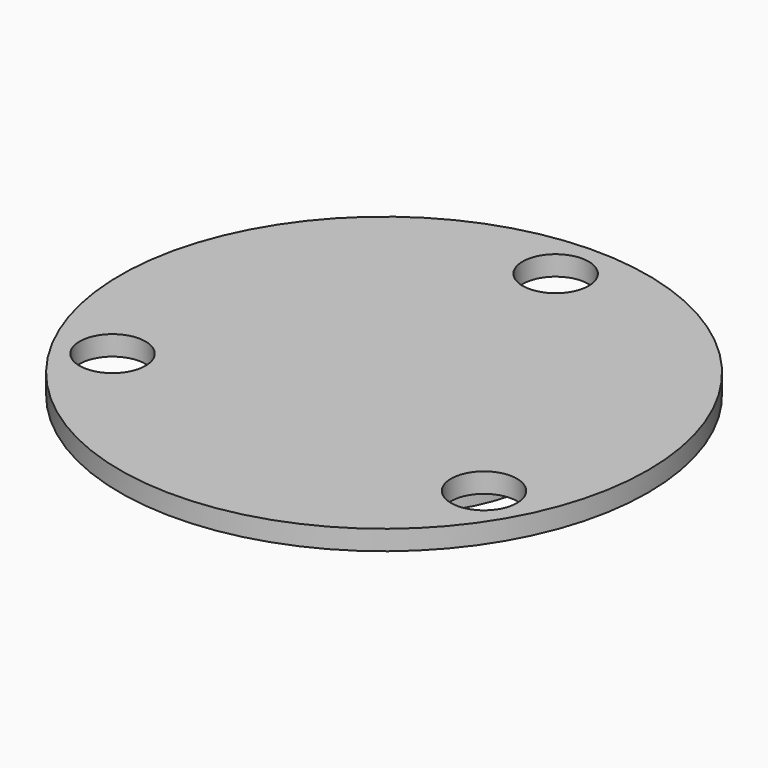
from build123d import *

# Parameters (mm, degrees)
F0_R     = 40
F1_DEPTH = 3
F2_R     = 5
F3_DEPTH = 25
F4_R     = 25
F5_DEPTH = 3


with BuildPart() as f1:
    # F0 (on Top) → F1 (new body)
    with BuildSketch(Plane.XY):
        Circle(F0_R)
    extrude(amount=-F1_DEPTH)

    # F2 (on Top) → F3 (cut)
    with BuildSketch(Plane.XY):
        with Locations((0, 32.5)):
            Circle(F2_R)
        with Locations((-28.145826, -16.25)):
            Circle(F2_R)
        with Locations((28.145826, -16.25)):
            Circle(F2_R)
    extrude(amount=-F3_DEPTH, mode=Mode.SUBTRACT)

    # F4 (on face) → F5 (join)
    with BuildSketch(Plane(origin=(0, 0, -3), x_dir=(1, 0, 0), z_dir=(0, 0, -1))):
        Circle(F4_R)
    extrude(amount=F5_DEPTH)


solid = f1.part
